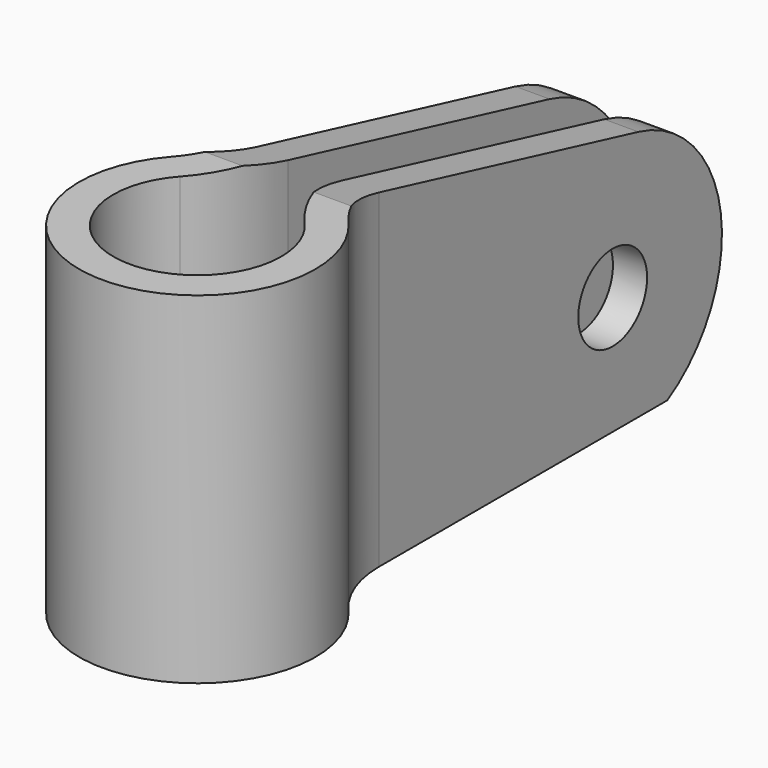
from build123d import *

# Parameters (mm, degrees)
F0_R     = 6.15
F1_DEPTH = 25
F2_R     = 3.15
F3_DEPTH = 4.5
F4_W     = 4
F4_H     = 43.2851596258
F5_DEPTH = 25.001
F6_R     = 8
F7_R     = 10
F8_R     = 3.15
F9_DEPTH = 1


with BuildPart() as f1:
    # F0 (on Top) → F1 (new body)
    with BuildSketch(Plane.XY):
        with BuildLine():
            Line((4.5, 7.3873202178), (-4.5, 7.3873202178))
            ThreePointArc((-4.5, 7.3873202178), (0, -8.65), (4.5, 7.3873202178))
        make_face()
        Circle(F0_R, mode=Mode.SUBTRACT)
    extrude(amount=F1_DEPTH)

    # F2 (on Right) → F3 (join, symmetric)
    with BuildSketch(Plane.YZ):
        with BuildLine():
            Line((34.739792331, 18.3796097241), (7.3873202178, 25))
            Line((7.3873202178, 25), (7.3873202178, 0))
            Line((7.3873202178, 0), (37.3873202178, 0))
            ThreePointArc((37.3873202178, 0), (42.2851596258, 10.0860082429), (34.739792331, 18.3796097241))
        make_face()
        with Locations((32.3873202178, 8.6602540378)):
            Circle(F2_R, mode=Mode.SUBTRACT)
    extrude(amount=F3_DEPTH, both=True)

    # F4 (on Top) → F5 (cut, through all)
    with BuildSketch(Plane.XY):
        with Locations((0, 21.6425798129)):
            Rectangle(F4_W, F4_H)
    extrude(amount=F5_DEPTH, mode=Mode.SUBTRACT)

    # F6
    f6_edges = [f1.edges().sort_by_distance(p)[0] for p in [
        (4.5, 7.38732, 12.5),
        (-4.5, 7.38732, 12.5),
    ]]
    fillet(f6_edges, radius=F6_R)

    # F7
    f7_edges = [f1.edges().sort_by_distance(p)[0] for p in [
        (-2, 5.815711, 12.5),
        (2, 5.815711, 12.5),
    ]]
    fillet(f7_edges, radius=F7_R)

    # F8 (on face) → F9 (cut)
    with BuildSketch(Plane(origin=(-4.5, 0, 0), x_dir=(0, -1, 0), z_dir=(-1, 0, 0))):
        Polygon((-37.5373202178, 11.6336079242), (-37.5373202178, 5.6869001515), (-32.3873202178, 2.7135462652), (-27.2373202178, 5.6869001515), (-27.2373202178, 11.6336079242), (-32.3873202178, 14.6069618105), align=None)
        with Locations((-32.3873202178, 8.6602540378)):
            Circle(F8_R, mode=Mode.SUBTRACT)
    extrude(amount=-F9_DEPTH, mode=Mode.SUBTRACT)


solid = f1.part
